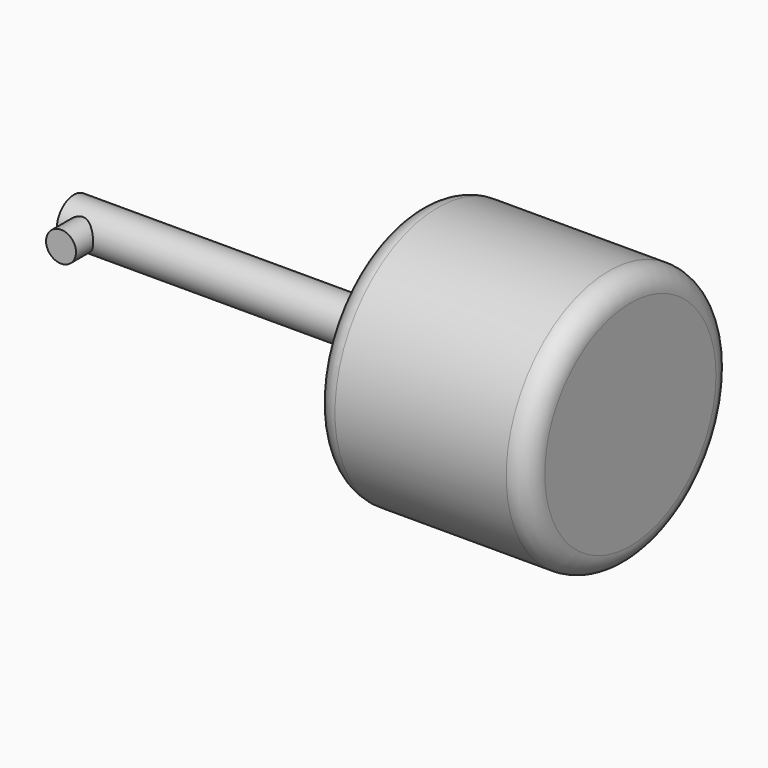
from build123d import *

# Parameters (mm, degrees)
F0_R     = 30
F1_DEPTH = 50
F2_R     = 5
F3_DEPTH = 80
F4_R     = 3.5
F5_DEPTH = 10
F6_R     = 5


with BuildPart() as f1:
    # F0 (on Right) → F1 (new body)
    with BuildSketch(Plane.YZ):
        Circle(F0_R)
    extrude(amount=F1_DEPTH)

    # F2 (on Right) → F3 (join)
    with BuildSketch(Plane.YZ):
        Circle(F2_R)
    extrude(amount=-F3_DEPTH)

    # F4 (on Front) → F5 (join)
    with BuildSketch(Plane.XZ):
        with Locations((-75, 0)):
            Circle(F4_R)
    extrude(amount=F5_DEPTH)

    # F6
    f6_edges = [f1.edges().sort_by_distance(p)[0] for p in [
        (50, -30, 0),
        (0, -30, 0),
    ]]
    fillet(f6_edges, radius=F6_R)


solid = f1.part
